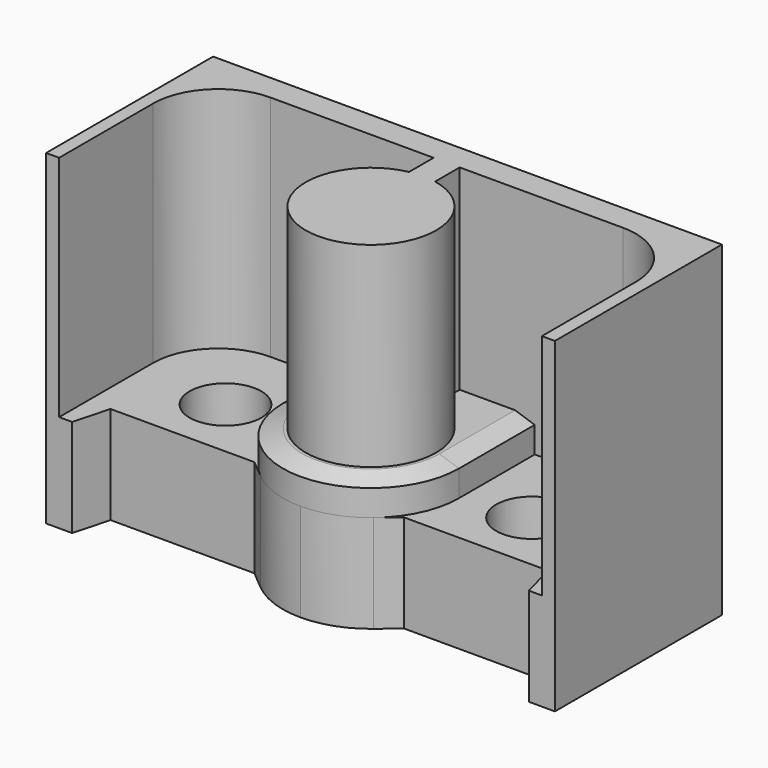
from build123d import *

# Parameters (mm, degrees)
F1_DEPTH  = 7
F2_W      = 15.6
F2_H      = 6.4
F3_DEPTH  = 3
F5_DEPTH  = 1
F6_SIZE2  = 0.2
F6_SIZE   = 0.6
F8_DEPTH  = 3
F9_R      = 1.1
F10_DEPTH = 3


with BuildPart() as f1:
    # F0 (on Top) → F1 (new body)
    with BuildSketch(Plane.XY):
        with BuildLine():
            Line((-0.4, 2.9), (-0.4, 1.9595917942))
            ThreePointArc((-0.4, 1.9595917942), (0, -2), (0.4, 1.9595917942))
            Line((0.4, 1.9595917942), (0.4, 2.9))
            Line((0.4, 2.9), (5.4, 2.9))
            ThreePointArc((5.4, 2.9), (6.8142135624, 2.3142135624), (7.4, 0.9))
            Line((7.4, 0.9), (7.4, -2.7))
            Line((7.4, -2.7), (7.8, -2.7))
            Line((7.8, -2.7), (7.8, 3.7))
            Line((7.8, 3.7), (-7.8, 3.7))
            Line((-7.8, 3.7), (-7.8, -2.7))
            Line((-7.8, -2.7), (-7.4, -2.7))
            Line((-7.4, -2.7), (-7.4, 0.9))
            ThreePointArc((-7.4, 0.9), (-6.8142135624, 2.3142135624), (-5.4, 2.9))
            Line((-5.4, 2.9), (-0.4, 2.9))
        make_face()
    extrude(amount=F1_DEPTH)

    # F2 (on face) → F3 (join)
    with BuildSketch(Plane(origin=(0, 0, 0), x_dir=(1, 0, 0), z_dir=(0, 0, -1))):
        with Locations((0, -0.5)):
            Rectangle(F2_W, F2_H)
    extrude(amount=F3_DEPTH)

    # F4 (on face) → F5 (join)
    with BuildSketch(Plane.XY):
        with BuildLine():
            Line((-2.7, 2.9), (-2.7, 0))
            ThreePointArc((-2.7, 0), (0, -2.7), (2.7, 0))
            Line((2.7, 0), (2.7, 2.9))
            Line((2.7, 2.9), (-2.7, 2.9))
        make_face()
    extrude(amount=F5_DEPTH)

    # F6
    f6_edges = [f1.edges().sort_by_distance(p)[0] for p in [
        (0, -2.7, 1),
    ]]
    f6_side = f1.faces().sort_by_distance((0, -2.622205, 1))[0]
    chamfer(f6_edges, length=F6_SIZE, length2=F6_SIZE2, reference=f6_side)

    # F7 (on face) → F8 (cut, through all)
    with BuildSketch(Plane.XY):
        with BuildLine():
            ThreePointArc((0, -2.7), (-0.923454387, -2.5371700761), (-1.7355265462, -2.0683199964))
            Line((-1.7355265462, -2.0683199964), (-2.2936485844, -1.6))
            Line((-2.2936485844, -1.6), (-6.7052558883, -1.6))
            Line((-6.7052558883, -1.6), (-7, -2.7))
            Line((-7, -2.7), (0, -2.7))
        make_face()
        with BuildLine():
            ThreePointArc((1.7355265462, -2.0683199964), (0.923454387, -2.5371700761), (0, -2.7))
            Line((0, -2.7), (7, -2.7))
            Line((7, -2.7), (6.7052558883, -1.6))
            Line((6.7052558883, -1.6), (2.2936485844, -1.6))
            Line((2.2936485844, -1.6), (1.7355265462, -2.0683199964))
        make_face()
    extrude(amount=-F8_DEPTH, mode=Mode.SUBTRACT)

    # F9 (on face) → F10 (cut, through all)
    with BuildSketch(Plane(origin=(0, 0, -3), x_dir=(1, 0, 0), z_dir=(0, 0, -1))):
        with Locations((-4.7, -0.3)):
            Circle(F9_R)
        with Locations((4.7, -0.3)):
            Circle(F9_R)
    extrude(amount=-F10_DEPTH, mode=Mode.SUBTRACT)


solid = f1.part
